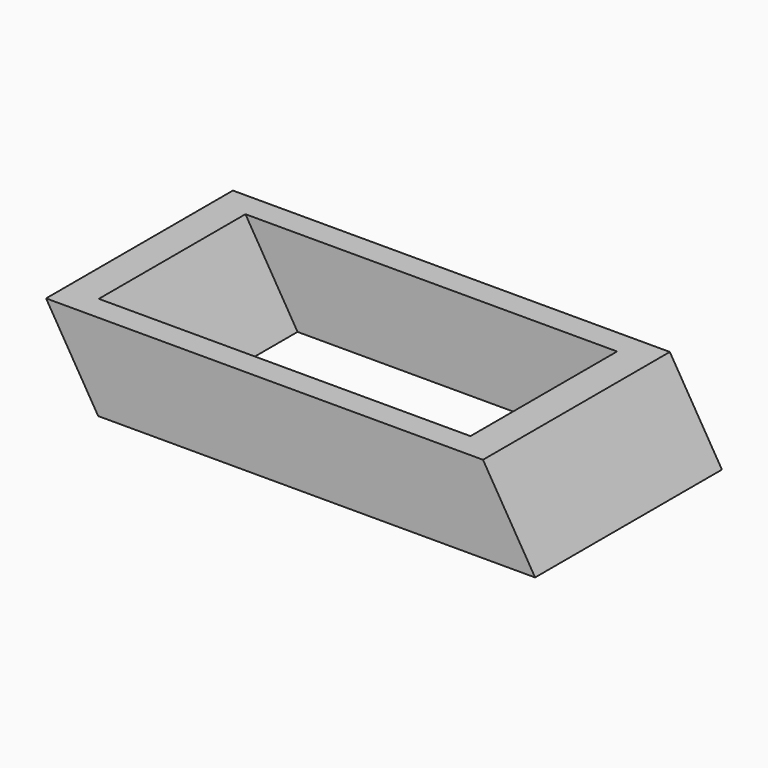
from build123d import *

# Parameters (mm, degrees)
F0_W   = 66.04994
F0_H   = 35.302568
F0_W_2 = 56.180406
F0_H_2 = 27.71062


with BuildPart() as f2:
    # F2: sweep along a path in F1
    with BuildLine(Plane.XZ) as f2_path:
        Line((0, 0), (-7.875135, 13.102738))
    # F0 (on Top) → F2 (sweep)
    with BuildSketch(Plane.XY):
        Rectangle(F0_W, F0_H)
        Rectangle(F0_W_2, F0_H_2, mode=Mode.SUBTRACT)
    sweep(path=f2_path.line)


solid = f2.part
